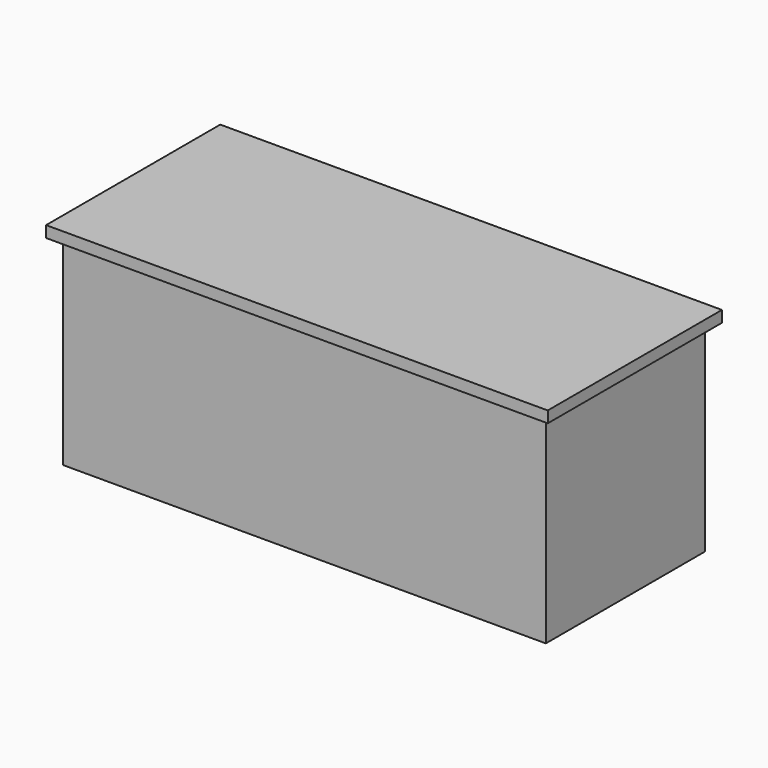
from build123d import *

# Parameters (mm, degrees)
F0_W     = 67.31
F0_H     = 29.21
F1_DEPTH = 1.524
F2_W     = 64.77
F2_H     = 26.67
F3_DEPTH = 26.924


with BuildPart() as f1:
    # F0 (on Top) → F1 (new body)
    with BuildSketch(Plane.XY):
        Rectangle(F0_W, F0_H)
    extrude(amount=F1_DEPTH)

    # F2 (on face) → F3 (join)
    with BuildSketch(Plane(origin=(0, 0, 0), x_dir=(1, 0, 0), z_dir=(0, 0, -1))):
        Rectangle(F2_W, F2_H)
    extrude(amount=F3_DEPTH)


solid = f1.part
